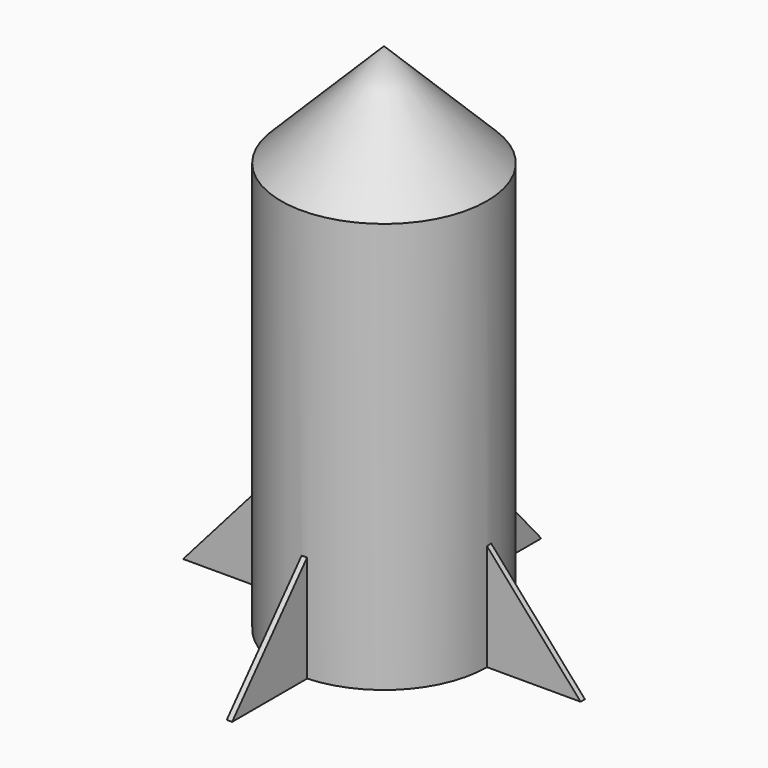
from build123d import *

# Parameters (mm, degrees)
F0_R     = 19.12
F0_R_2   = 11.5
F1_DEPTH = 76.2
F2_R     = 19.12
F3_DEPTH = 50.8
F3_TAPER = 45
F5_DEPTH = 1
F6_COUNT = 4


with BuildPart() as f1:
    # F0 (on Top) → F1 (new body)
    with BuildSketch(Plane.XY):
        Circle(F0_R)
        Circle(F0_R_2, mode=Mode.SUBTRACT)
    extrude(amount=F1_DEPTH)

    # F2 (on face) → F3 (join)
    with BuildSketch(Plane.XY.offset(76.2)):
        Circle(F2_R)
    extrude(amount=F3_DEPTH, taper=F3_TAPER)

    # F4 (on Right) → F5 (join)
    with BuildSketch(Plane.YZ):
        Polygon((-36.5078145027, 0), (-13, 0), (-13, 26.7600230816), align=None)
    extrude(amount=F5_DEPTH)

    # F6: F1 ×4 about axis
    f6_axis = Axis((0, 0, 0), (0, 0, 1))


with BuildPart() as f1_1:
    add(f1.part)
    for i in range(1, F6_COUNT):
        add(f1.part.rotate(f6_axis, i * 360 / F6_COUNT))


solid = f1_1.part
